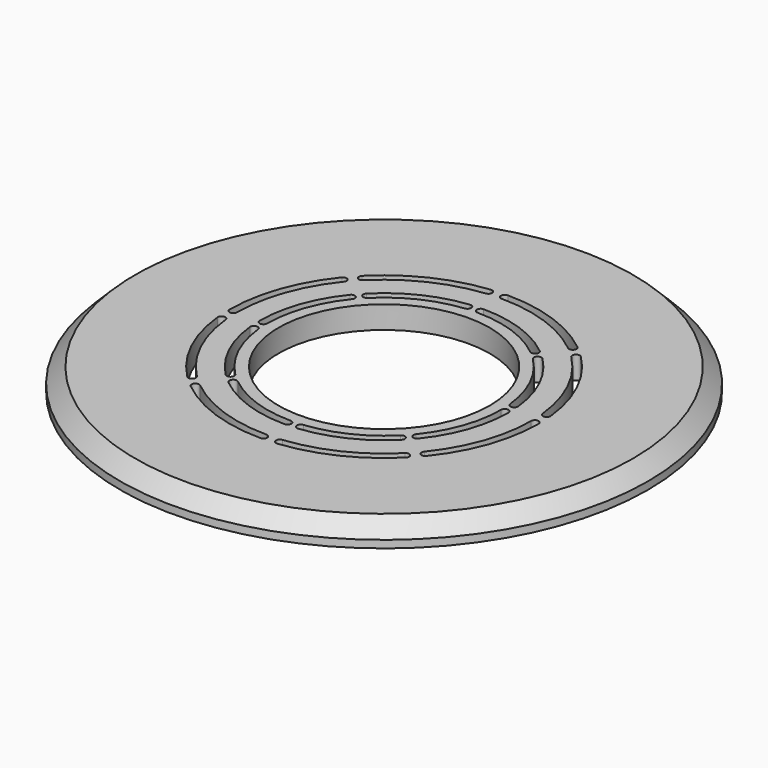
from build123d import *

# Parameters (mm, degrees)
SKETCH003_R           = 35
SKETCH003_R_2         = 14
PAD002_DEPTH          = 3
SKETCH004_R           = 25
SKETCH004_R_2         = 23.5
POCKET001_DEPTH       = 1.7
POCKET002_DEPTH       = 201.081792
POLARPATTERN001_COUNT = 8
CHAMFER_SIZE          = 2


with BuildPart() as part:
    # Sketch003 → Pad002 (new body)
    with BuildSketch(Plane.XY):
        Circle(SKETCH003_R)
        Circle(SKETCH003_R_2, mode=Mode.SUBTRACT)
    extrude(amount=PAD002_DEPTH)

    # Sketch004 (on Face3 of Pad002) → Pocket001 (cut)
    with BuildSketch(Plane(origin=(0, 0, 0), x_dir=(1, 0, 0), z_dir=(0, 0, -1))):
        Circle(SKETCH004_R)
        Circle(SKETCH004_R_2, mode=Mode.SUBTRACT)
    extrude(amount=-POCKET001_DEPTH, mode=Mode.SUBTRACT)

    # Sketch005 (on Face2 of Pocket001) → Pocket002 (cut, through all)
    with BuildSketch(Plane(origin=(0, 0, 0), x_dir=(1, 0, 0), z_dir=(0, 0, -1))):
        with BuildLine():
            ThreePointArc((10.960155, 10.960155), (6.672922, 13.990072), (1.620191, 15.415089))
            ThreePointArc((1.72472, 16.409611), (1.175194, 15.964615), (1.620191, 15.415089))
            ThreePointArc((11.667262, 11.667262), (7.103433, 14.892657), (1.72472, 16.409611))
            ThreePointArc((10.960155, 10.960155), (11.667262, 10.960155), (11.667262, 11.667262))
        make_face()
        with BuildLine():
            ThreePointArc((13.788582, 13.788582), (8.394966, 17.600413), (2.038305, 19.393177))
            ThreePointArc((2.142833, 20.387699), (1.593308, 19.942702), (2.038305, 19.393177))
            ThreePointArc((14.495689, 14.495689), (8.825477, 18.502998), (2.142833, 20.387699))
            ThreePointArc((13.788582, 13.788582), (14.495689, 13.788582), (14.495689, 14.495689))
        make_face()
    pocket002 = extrude(amount=-POCKET002_DEPTH, mode=Mode.SUBTRACT)

    # PolarPattern001: Pocket002 ×8 about axis
    polarpattern001_axis = Axis((0, 0, 0), (0, 0, -1))
    for i in range(1, POLARPATTERN001_COUNT):
        add(pocket002.rotate(polarpattern001_axis, i * 360 / POLARPATTERN001_COUNT), mode=Mode.SUBTRACT)

    # Chamfer
    chamfer_edges = [part.edges().sort_by_distance(p)[0] for p in [
        (-35, 0, 3),
    ]]
    chamfer(chamfer_edges, length=CHAMFER_SIZE)


with BuildPart() as part_1:
    # Body001 placement: moved
    add(part.part.moved(Location((0, 0, 1.2))))


solid = part_1.part
